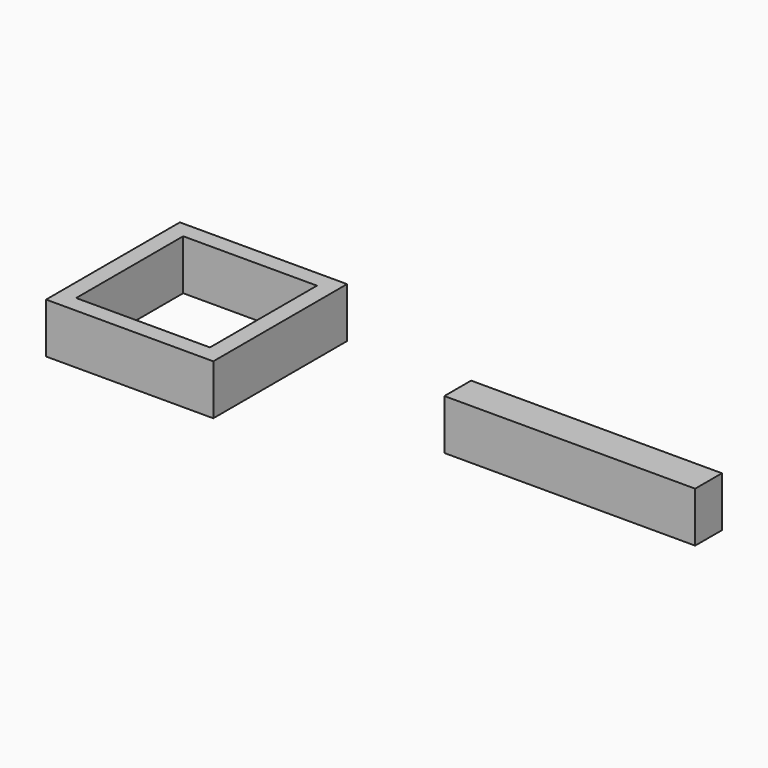
from build123d import *

# Parameters (mm, degrees)
F0_W     = 10
F0_H     = 10
F0_W_2   = 8
F0_H_2   = 8
F1_DEPTH = 2
F0_W_3   = 15
F0_H_3   = 2
F2_DEPTH = 3


with BuildPart() as f1:
    # F0 (on Top) → F1 (new body)
    with BuildSketch(Plane.XY):
        Rectangle(F0_W, F0_H)
        Rectangle(F0_W_2, F0_H_2, mode=Mode.SUBTRACT)
    extrude(amount=F1_DEPTH)

    # F0 (on Top) → F2 (join)
    with BuildSketch(Plane.XY):
        Rectangle(F0_W, F0_H)
        Rectangle(F0_W_2, F0_H_2, mode=Mode.SUBTRACT)
        with Locations((23.119159, 0)):
            Rectangle(F0_W_3, F0_H_3)
    extrude(amount=F2_DEPTH)


solid = f1.part
